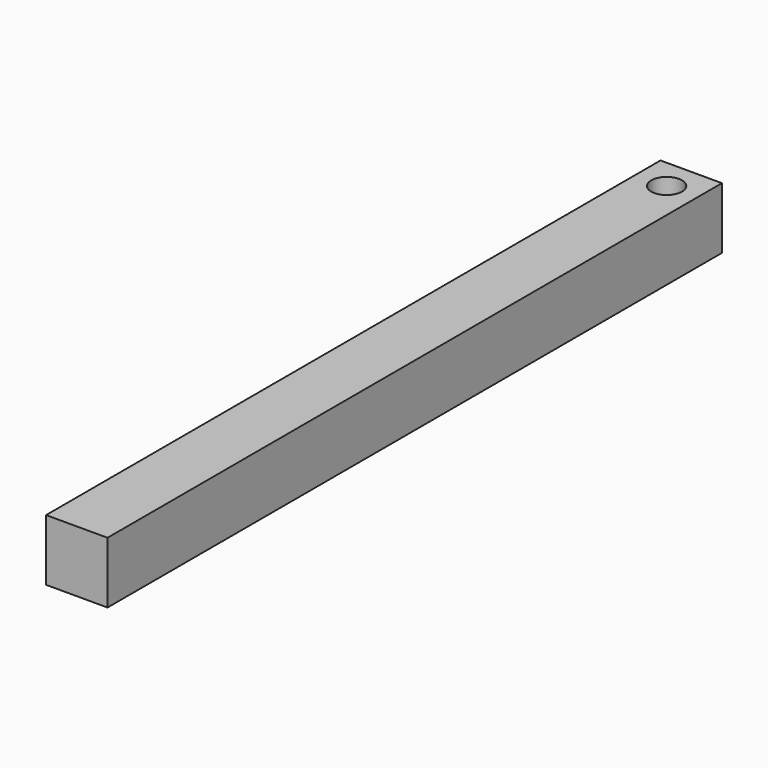
from build123d import *

# Parameters (mm, degrees)
F0_W     = 200
F0_H     = 200
F1_DEPTH = 1250
F3_D     = 100
F3_DEPTH = 200


with BuildPart() as f1:
    # F0 (on Front) → F1 (new body, symmetric)
    with BuildSketch(Plane.XZ):
        Rectangle(F0_W, F0_H)
    extrude(amount=F1_DEPTH, both=True)

    # F3
    with Locations(Plane.XY.offset(100)):
        with Locations((0, 1150)):
            Hole(F3_D / 2, depth=F3_DEPTH)


solid = f1.part
